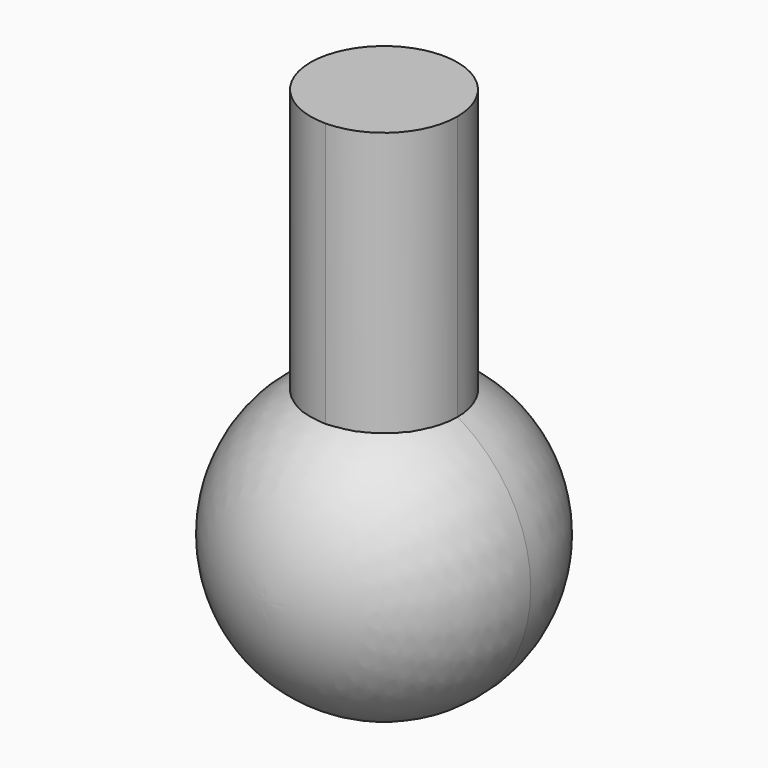
from build123d import *

# Parameters (mm, degrees)
F2_DEPTH = 101.6


with BuildPart() as f1:
    # F0 (on Top) → F1 (revolve)
    with BuildSketch(Plane.XY):
        with BuildLine():
            ThreePointArc((0, -38.1), (26.940768, -26.940768), (38.1, 0))
            ThreePointArc((38.1, 0), (26.940768, 26.940768), (0, 38.1))
            Line((0, 38.1), (0, 19.05))
            ThreePointArc((0, 19.05), (13.470384, 13.470384), (19.05, 0))
            ThreePointArc((19.05, 0), (13.470384, -13.470384), (0, -19.05))
            Line((0, -19.05), (0, -38.1))
        make_face()
    revolve(axis=Axis((0, 19.05, 0), (0, 1, 0)))


with BuildPart() as f2:
    # F0 (on Top) → F2 (new body)
    with BuildSketch(Plane.XY):
        with BuildLine():
            Line((0, 0), (0, 19.05))
            ThreePointArc((0, 19.05), (-19.05, 0), (0, -19.05))
            Line((0, -19.05), (0, 0))
        make_face()
        with BuildLine():
            ThreePointArc((19.05, 0), (13.470384, 13.470384), (0, 19.05))
            Line((0, 19.05), (0, 0))
            Line((0, 0), (0, -19.05))
            ThreePointArc((0, -19.05), (13.470384, -13.470384), (19.05, 0))
        make_face()
    extrude(amount=F2_DEPTH)


solid = Compound([f1.part, f2.part])
